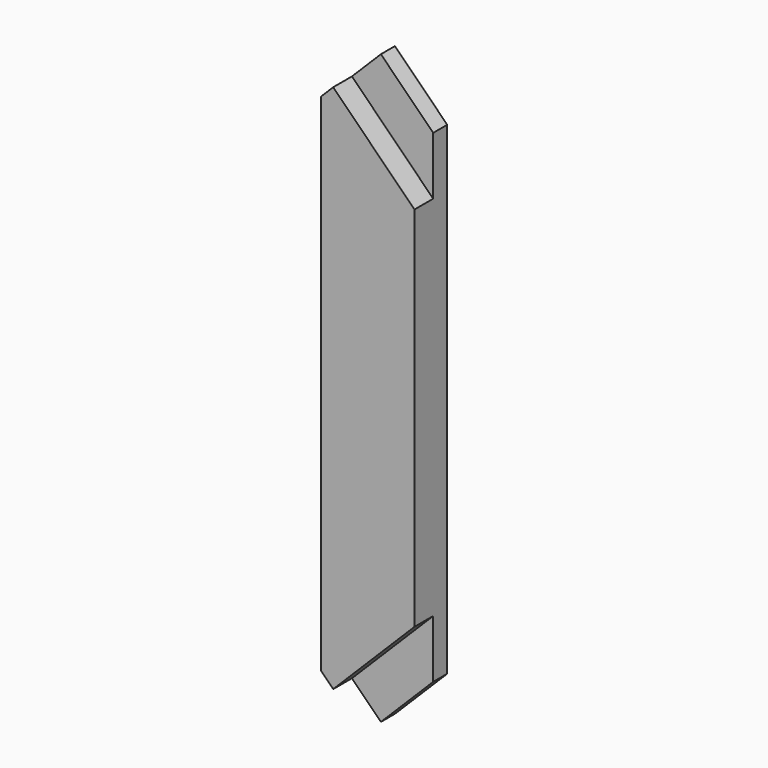
from build123d import *

# Parameters (mm, degrees)
F1_DEPTH = 88.9
F2_DEPTH = 38.1


with BuildPart() as f1:
    # F0 (on Front) → F1 (new body)
    with BuildSketch(Plane.XZ):
        Polygon((101.6, 340.150816), (-101.6, 543.350816), (-101.6, -552.244648), (101.6, -349.044648), align=None)
        Polygon((101.6, -349.044648), (-101.6, -552.244648), (-74.659232, -579.185416), (101.6, -402.926184), align=None)
        Polygon((-74.659232, 570.291584), (-101.6, 543.350816), (101.6, 340.150816), (101.6, 394.032352), align=None)
    extrude(amount=F1_DEPTH)

    # F0 (on Front) → F2 (join)
    with BuildSketch(Plane.XZ):
        Polygon((101.6, 394.032352), (101.6, 519.755938), (-11.797439, 633.153377), (-74.659232, 570.291584), align=None)
        Polygon((101.6, -402.926184), (-74.659232, -579.185416), (-11.797439, -642.047209), (101.6, -528.64977), align=None)
    extrude(amount=F2_DEPTH)


solid = f1.part
